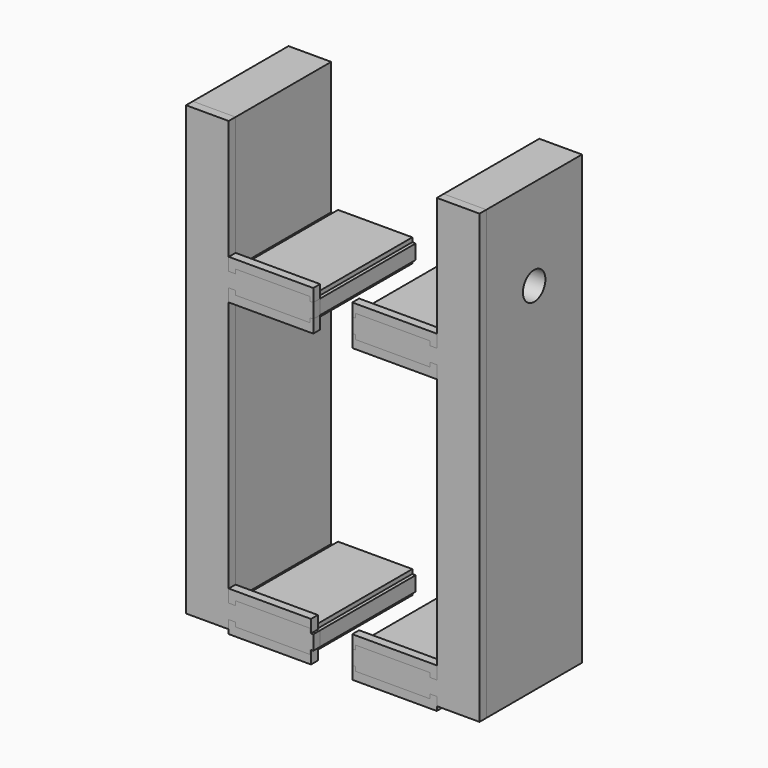
from build123d import *

# Parameters (mm, degrees)
F0_W      = 22.098
F0_H      = 4.318
F0_W_2    = 2.032
F0_H_2    = 1.27
F0_W_3    = 1.016
F1_DEPTH  = 35.56
F4_DEPTH  = 2.54
F5_R      = 4.191
F6_DEPTH  = 12.192
F7_R      = 4.191
F8_DEPTH  = 12.192
F10_R     = 3.81
F11_DEPTH = 25.4
F9_R      = 3.81
F12_DEPTH = 25.4
F13_DEPTH = 2.54


with BuildPart() as f1:
    # F0 (on Front) → F1 (new body)
    with BuildSketch(Plane.XZ):
        Polygon((0, 133.096), (-12.7, 133.096), (-12.7, 0), (0, 0), (0, 2.54), (0, 6.858), (0, 89.408), (0, 93.726), align=None)
        with Locations((13.081, 4.699)):
            Rectangle(F0_W, F0_H)
        with Locations((1.016, 4.699)):
            Rectangle(F0_W_2, F0_H)
        with Locations((13.081, 1.905)):
            Rectangle(F0_W, F0_H_2)
        with Locations((24.638, 4.699)):
            Rectangle(F0_W_3, F0_H)
        with Locations((13.081, 7.493)):
            Rectangle(F0_W, F0_H_2)
        with Locations((13.081, 91.567)):
            Rectangle(F0_W, F0_H)
        with Locations((1.016, 91.567)):
            Rectangle(F0_W_2, F0_H)
        with Locations((13.081, 94.361)):
            Rectangle(F0_W, F0_H_2)
        with Locations((24.638, 91.567)):
            Rectangle(F0_W_3, F0_H)
        with Locations((13.081, 88.773)):
            Rectangle(F0_W, F0_H_2)
    extrude(amount=F1_DEPTH)

    # F5 (on face) → F6 (cut)
    with BuildSketch(Plane(origin=(-12.7, 0, 0), x_dir=(0, -1, 0), z_dir=(-1, 0, 0))):
        with Locations((17.78, 105.918)):
            Circle(F5_R)
    extrude(amount=-F6_DEPTH, mode=Mode.SUBTRACT)

    # F10 (on face) → F11 (cut)
    with BuildSketch(Plane(origin=(0, 0, 0), x_dir=(-1, 0, 0), z_dir=(0, 1, 0))):
        with Locations((6.35, 91.567)):
            Circle(F10_R)
        with Locations((6.35, 4.699)):
            Circle(F10_R)
    extrude(amount=-F11_DEPTH, mode=Mode.SUBTRACT)


with BuildPart() as f1b:
    # F0 (on Front) → F1, piece 2 (new body)
    with BuildSketch(Plane.XZ):
        Polygon((61.8981353288, 93.726), (61.8981353288, 89.408), (61.8981353288, 6.858), (61.8981353288, 2.54), (61.8981353288, 0), (74.5981353288, 0), (74.5981353288, 133.096), (61.8981353288, 133.096), align=None)
        with Locations((48.8171353288, 1.905)):
            Rectangle(F0_W, F0_H_2)
        with Locations((48.8171353288, 4.699)):
            Rectangle(F0_W, F0_H)
        with Locations((37.2601353288, 4.699)):
            Rectangle(F0_W_3, F0_H)
        with Locations((60.8821353288, 4.699)):
            Rectangle(F0_W_2, F0_H)
        with Locations((48.8171353288, 7.493)):
            Rectangle(F0_W, F0_H_2)
        with Locations((48.8171353288, 88.773)):
            Rectangle(F0_W, F0_H_2)
        with Locations((48.8171353288, 91.567)):
            Rectangle(F0_W, F0_H)
        with Locations((37.2601353288, 91.567)):
            Rectangle(F0_W_3, F0_H)
        with Locations((60.8821353288, 91.567)):
            Rectangle(F0_W_2, F0_H)
        with Locations((48.8171353288, 94.361)):
            Rectangle(F0_W, F0_H_2)
    extrude(amount=F1_DEPTH)

    # F7 (on face) → F8 (cut)
    with BuildSketch(Plane.YZ.offset(74.5981353288)):
        with Locations((-17.78, 105.918)):
            Circle(F7_R)
    extrude(amount=-F8_DEPTH, mode=Mode.SUBTRACT)

    # F9 (on face) → F12 (cut)
    with BuildSketch(Plane(origin=(0, 0, 0), x_dir=(-1, 0, 0), z_dir=(0, 1, 0))):
        with Locations((-68.2481353288, 91.567)):
            Circle(F9_R)
        with Locations((-68.2481353288, 4.699)):
            Circle(F9_R)
    extrude(amount=-F12_DEPTH, mode=Mode.SUBTRACT)


with BuildPart() as f4:
    # F3 (on face) → F4 (new body)
    with BuildSketch(Plane.XZ.offset(35.56)):
        Polygon((36.7521353288, 89.408), (36.7521353288, 85.598), (61.8981353288, 85.598), (61.8981353288, 89.408), (59.8661353288, 89.408), (59.8661353288, 88.138), (37.7681353288, 88.138), (37.7681353288, 89.408), align=None)
    extrude(amount=F4_DEPTH)


with BuildPart() as f4b:
    # F3 (on face) → F4, piece 2 (new body)
    with BuildSketch(Plane.XZ.offset(35.56)):
        Polygon((36.7521353288, 97.536), (36.7521353288, 93.726), (37.7681353288, 93.726), (37.7681353288, 94.996), (59.8661353288, 94.996), (59.8661353288, 93.726), (61.8981353288, 93.726), (61.8981353288, 97.536), align=None)
    extrude(amount=F4_DEPTH)


with BuildPart() as f4c:
    # F3 (on face) → F4, piece 3 (new body)
    with BuildSketch(Plane.XZ.offset(35.56)):
        Polygon((61.8981353288, 6.858), (61.8981353288, 10.668), (36.7521353288, 10.668), (36.7521353288, 6.858), (37.7681353288, 6.858), (37.7681353288, 8.128), (59.8661353288, 8.128), (59.8661353288, 6.858), align=None)
    extrude(amount=F4_DEPTH)


with BuildPart() as f4d:
    # F3 (on face) → F4, piece 4 (new body)
    with BuildSketch(Plane.XZ.offset(35.56)):
        Polygon((61.8981353288, 0), (61.8981353288, 2.54), (59.8661353288, 2.54), (59.8661353288, 1.27), (37.7681353288, 1.27), (37.7681353288, 2.54), (36.7521353288, 2.54), (36.7521353288, -1.27), (61.8981353288, -1.27), align=None)
    extrude(amount=F4_DEPTH)


with BuildPart() as f4e:
    # F2 (on face) → F4, piece 5 (new body)
    with BuildSketch(Plane.XZ.offset(35.56)):
        Polygon((25.146, 97.536), (0, 97.536), (0, 93.726), (2.032, 93.726), (2.032, 94.996), (24.13, 94.996), (24.13, 93.726), (25.146, 93.726), align=None)
    extrude(amount=F4_DEPTH)


with BuildPart() as f4f:
    # F2 (on face) → F4, piece 6 (new body)
    with BuildSketch(Plane.XZ.offset(35.56)):
        Polygon((0, 89.408), (0, 85.598), (25.146, 85.598), (25.146, 89.408), (24.13, 89.408), (24.13, 88.138), (2.032, 88.138), (2.032, 89.408), align=None)
    extrude(amount=F4_DEPTH)


with BuildPart() as f4g:
    # F2 (on face) → F4, piece 7 (new body)
    with BuildSketch(Plane.XZ.offset(35.56)):
        Polygon((24.13, 6.858), (24.4717603516, 6.858), (24.4717603516, 10.668), (0, 10.668), (0, 6.858), (2.032, 6.858), (2.032, 8.128), (24.13, 8.128), align=None)
    extrude(amount=F4_DEPTH)


with BuildPart() as f4h:
    # F2 (on face) → F4, piece 8 (new body)
    with BuildSketch(Plane.XZ.offset(35.56)):
        Polygon((0, 0), (0, -1.27), (24.4717603516, -1.27), (24.4717603516, 2.54), (24.13, 2.54), (24.13, 1.27), (2.032, 1.27), (2.032, 2.54), (0, 2.54), align=None)
    extrude(amount=F4_DEPTH)


with BuildPart() as f13:
    # F13 (new): a face of the model
    f13_faces = [f1.part.faces().sort_by_distance(p)[0] for p in [
        (-3.2354290551, -35.56, 63.5445185587),
    ]]
    extrude(f13_faces, amount=F13_DEPTH)


with BuildPart() as f13b:
    # F13#2 (new): a face of the model
    f13_2_faces = [f1b.part.faces().sort_by_distance(p)[0] for p in [
        (65.1335643839, -35.56, 63.5445185587),
    ]]
    extrude(f13_2_faces, amount=F13_DEPTH)


solid = Compound([f1.part, f1b.part, f4.part, f4b.part, f4c.part, f4d.part, f4e.part, f4f.part, f4g.part, f4h.part, f13.part, f13b.part])
